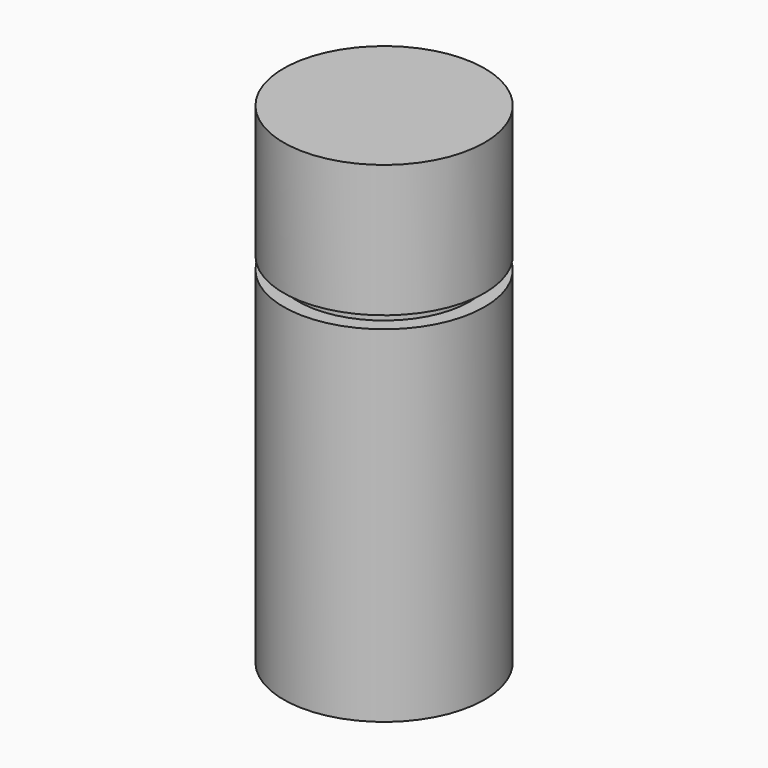
from build123d import *

# Parameters (mm, degrees)
F0_R     = 4.1
F1_DEPTH = 20
F2_W     = 0.6
F2_H     = 0.5


with BuildPart() as f1:
    # F0 (on Top) → F1 (new body)
    with BuildSketch(Plane.XY):
        Circle(F0_R)
    extrude(amount=F1_DEPTH)

    # F2 (on Front) → F3 (revolve, cut)
    with BuildSketch(Plane.XZ):
        with Locations((3.8, 14.35)):
            Rectangle(F2_W, F2_H)
    revolve(axis=Axis((0, 0, 0), (0, 0, -1)), mode=Mode.SUBTRACT)


solid = f1.part
